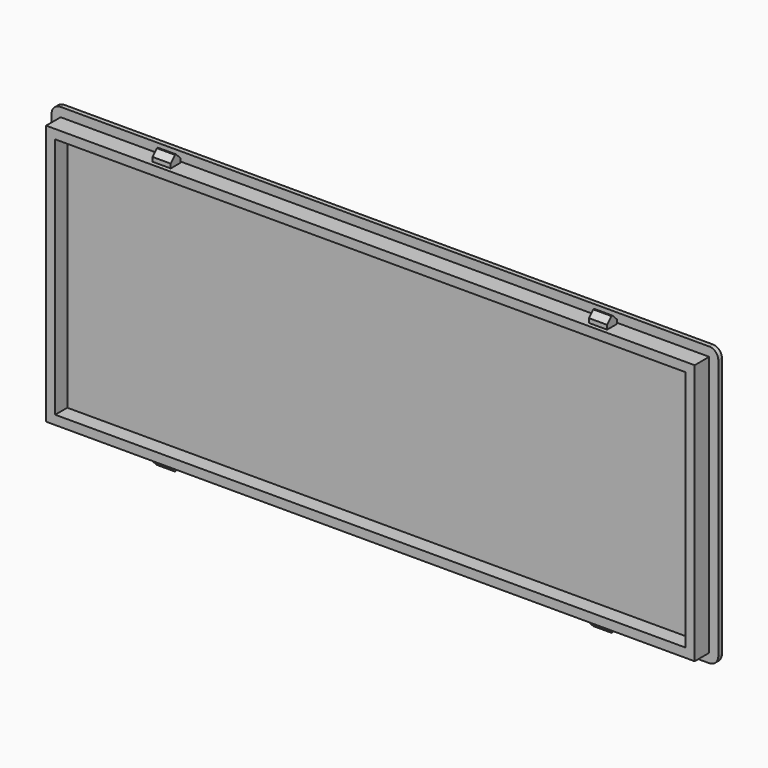
from build123d import *

# Parameters (mm, degrees)
BOX030_W                   = 104
BOX030_H                   = 2.5
BOX030_DEPTH               = 40
BOX029_W                   = 107
BOX029_H                   = 3
BOX029_DEPTH               = 43
BOX028_W                   = 3
BOX028_H                   = 46
BOX028_DEPTH               = 2
CHAMFER003_SIZE            = 0.9
CHAMFER003_PLACEMENT_ANGLE = 90
BOX027_W                   = 3
BOX027_H                   = 46
BOX027_DEPTH               = 2
CHAMFER002_SIZE            = 0.9
CHAMFER002_PLACEMENT_ANGLE = 90
BOX031_W                   = 110
BOX031_H                   = 0.75
BOX031_DEPTH               = 46
FILLET_R                   = 1.5


with BuildPart() as cubo030:
    # Box030 → Box030 (new body)
    with BuildSketch(Plane(origin=(1.5, 27, 1.5), x_dir=(1, 0, 0), z_dir=(0, 0, 1))):
        with Locations((52, 1.25)):
            Rectangle(BOX030_W, BOX030_H)
    extrude(amount=BOX030_DEPTH)


with BuildPart() as cubo029:
    # Box029 → Box029 (new body)
    with BuildSketch(Plane(origin=(0, 27, 0), x_dir=(1, 0, 0), z_dir=(0, 0, 1))):
        with Locations((53.5, 1.5)):
            Rectangle(BOX029_W, BOX029_H)
    extrude(amount=BOX029_DEPTH)


with BuildPart() as chamfer003:
    # Box028 → Box028 (new body)
    with BuildSketch(Plane(origin=(5, -1, -6), x_dir=(1, 0, 0), z_dir=(0, 0, 1))):
        with Locations((1.5, 23)):
            Rectangle(BOX028_W, BOX028_H)
    extrude(amount=BOX028_DEPTH)

    # Chamfer003
    chamfer003_edges = [chamfer003.edges().sort_by_distance(p)[0] for p in [
        (6.5, -1, -6),
        (6.5, -1, -4),
        (6.5, 45, -6),
        (6.5, 45, -4),
    ]]
    chamfer(chamfer003_edges, length=CHAMFER003_SIZE)


with BuildPart() as chamfer003_1:
    # Chamfer003 placement: moved
    add(chamfer003.part.moved(Location((84, 23.7, -0.4))).rotate(Axis((84, 23.7, -0.4), (1, 0, 0)), CHAMFER003_PLACEMENT_ANGLE))


with BuildPart() as cut004:
    # Box027 → Box027 (new body)
    with BuildSketch(Plane(origin=(5, -1, -6), x_dir=(1, 0, 0), z_dir=(0, 0, 1))):
        with Locations((1.5, 23)):
            Rectangle(BOX027_W, BOX027_H)
    extrude(amount=BOX027_DEPTH)

    # Chamfer002
    chamfer002_edges = [cut004.edges().sort_by_distance(p)[0] for p in [
        (6.5, -1, -6),
        (6.5, -1, -4),
        (6.5, 45, -6),
        (6.5, 45, -4),
    ]]
    chamfer(chamfer002_edges, length=CHAMFER002_SIZE)


with BuildPart() as cut004_1:
    # Chamfer002 placement: moved
    add(cut004.part.moved(Location((12, 23.7, -0.4))).rotate(Axis((12, 23.7, -0.4), (1, 0, 0)), CHAMFER002_PLACEMENT_ANGLE))

    # Fusion001: union Chamfer003
    add(chamfer003_1.part)

    # Fusion002: union Cubo029
    add(cubo029.part)

    # Cut004: cut Cubo030
    add(cubo030.part, mode=Mode.SUBTRACT)


with BuildPart() as tapa:
    # Box031 → Box031 (new body)
    with BuildSketch(Plane(origin=(-1.5, 30, -1.5), x_dir=(1, 0, 0), z_dir=(0, 0, 1))):
        with Locations((55, 0.375)):
            Rectangle(BOX031_W, BOX031_H)
    extrude(amount=BOX031_DEPTH)

    # Fillet
    fillet_edges = [tapa.edges().sort_by_distance(p)[0] for p in [
        (-1.5, 30.375, 44.5),
        (-1.5, 30.375, -1.5),
        (108.5, 30.375, 44.5),
        (108.5, 30.375, -1.5),
    ]]
    fillet(fillet_edges, radius=FILLET_R)

    # Fusion003: union Cut004
    add(cut004_1.part)


solid = tapa.part
